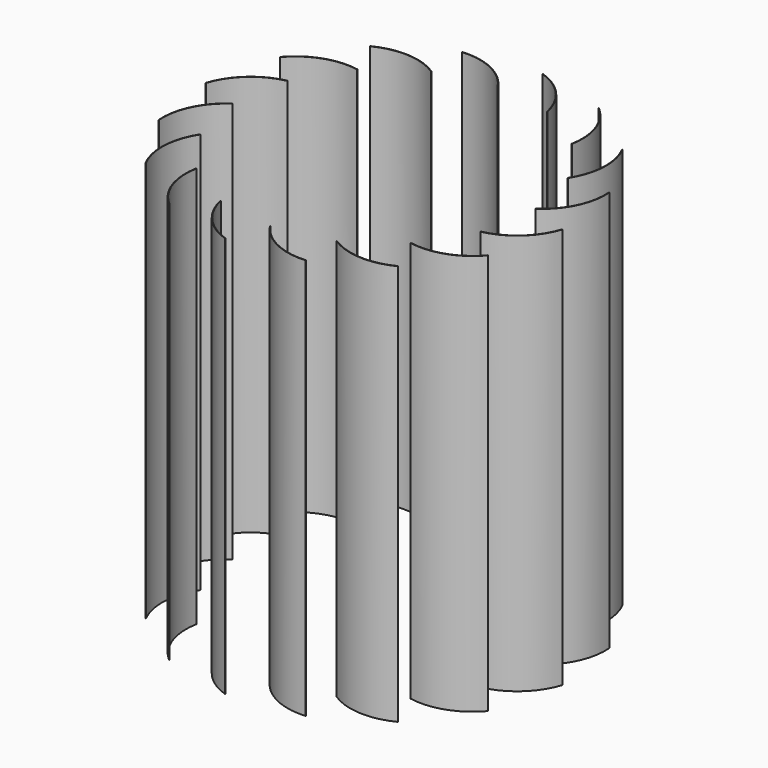
from build123d import *

# Parameters (mm, degrees)
F1_DEPTH = 2000
F3_COUNT = 16


with BuildPart() as f1:
    # F0 (on Top) → F1 (new body)
    with BuildSketch(Plane.XY):
        with BuildLine():
            ThreePointArc((-690.919123, 262.794233), (-838.509176, 187.593345), (-928.725467, 48.672439))
            Line((-928.725467, 48.672439), (-926.823354, 48.054405))
            ThreePointArc((-926.823354, 48.054405), (-837.170915, 186.107056), (-690.5033, 260.837938))
            Line((-690.5033, 260.837938), (-690.919123, 262.794233))
        make_face()
    extrude(amount=F1_DEPTH)


with BuildPart() as f3_1:
    # F3: instance of F1
    add(f1.part.rotate(Axis((0, 0, 502.664506), (0, 0, 1)), 1 * 360 / F3_COUNT))


with BuildPart() as f3_2:
    # F3: instance of F1
    add(f1.part.rotate(Axis((0, 0, 502.664506), (0, 0, 1)), 2 * 360 / F3_COUNT))


with BuildPart() as f3_3:
    # F3: instance of F1
    add(f1.part.rotate(Axis((0, 0, 502.664506), (0, 0, 1)), 3 * 360 / F3_COUNT))


with BuildPart() as f3_4:
    # F3: instance of F1
    add(f1.part.rotate(Axis((0, 0, 502.664506), (0, 0, 1)), 4 * 360 / F3_COUNT))


with BuildPart() as f3_5:
    # F3: instance of F1
    add(f1.part.rotate(Axis((0, 0, 502.664506), (0, 0, 1)), 5 * 360 / F3_COUNT))


with BuildPart() as f3_6:
    # F3: instance of F1
    add(f1.part.rotate(Axis((0, 0, 502.664506), (0, 0, 1)), 6 * 360 / F3_COUNT))


with BuildPart() as f3_7:
    # F3: instance of F1
    add(f1.part.rotate(Axis((0, 0, 502.664506), (0, 0, 1)), 7 * 360 / F3_COUNT))


with BuildPart() as f3_8:
    # F3: instance of F1
    add(f1.part.rotate(Axis((0, 0, 502.664506), (0, 0, 1)), 8 * 360 / F3_COUNT))


with BuildPart() as f3_9:
    # F3: instance of F1
    add(f1.part.rotate(Axis((0, 0, 502.664506), (0, 0, 1)), 9 * 360 / F3_COUNT))


with BuildPart() as f3_10:
    # F3: instance of F1
    add(f1.part.rotate(Axis((0, 0, 502.664506), (0, 0, 1)), 10 * 360 / F3_COUNT))


with BuildPart() as f3_11:
    # F3: instance of F1
    add(f1.part.rotate(Axis((0, 0, 502.664506), (0, 0, 1)), 11 * 360 / F3_COUNT))


with BuildPart() as f3_12:
    # F3: instance of F1
    add(f1.part.rotate(Axis((0, 0, 502.664506), (0, 0, 1)), 12 * 360 / F3_COUNT))


with BuildPart() as f3_13:
    # F3: instance of F1
    add(f1.part.rotate(Axis((0, 0, 502.664506), (0, 0, 1)), 13 * 360 / F3_COUNT))


with BuildPart() as f3_14:
    # F3: instance of F1
    add(f1.part.rotate(Axis((0, 0, 502.664506), (0, 0, 1)), 14 * 360 / F3_COUNT))


with BuildPart() as f3_15:
    # F3: instance of F1
    add(f1.part.rotate(Axis((0, 0, 502.664506), (0, 0, 1)), 15 * 360 / F3_COUNT))


solid = Compound([f1.part, f3_1.part, f3_2.part, f3_3.part, f3_4.part, f3_5.part, f3_6.part, f3_7.part, f3_8.part, f3_9.part, f3_10.part, f3_11.part, f3_12.part, f3_13.part, f3_14.part, f3_15.part])
